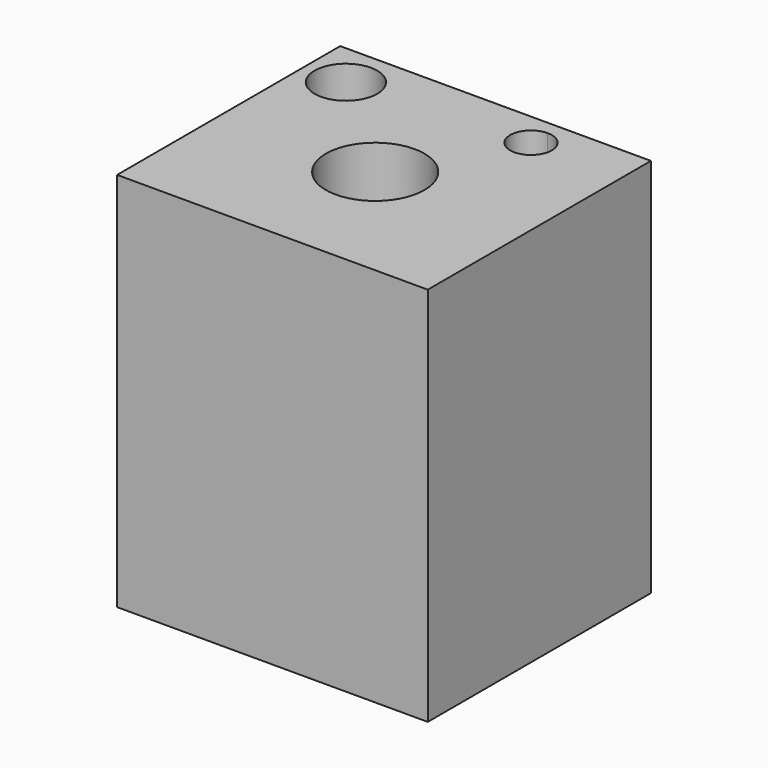
from build123d import *

# Parameters (mm, degrees)
F0_W        = 77.148978
F0_H        = 69.256503
F0_R        = 12.239809
F0_R_2      = 7.787735
F0_R_3      = 5.165088
F1_DEPTH    = 13.208
F1_FACE_W   = 77.148978
F1_FACE_H   = 69.256503
F1_FACE_R   = 12.239809
F1_FACE_R_2 = 7.787735
F1_FACE_R_3 = 5.165088
F2_DEPTH    = 94.488


with BuildPart() as f1:
    # F0 (on Top) → F1 (new body)
    with BuildSketch(Plane.XY):
        with Locations((0.295969, 2.367745)):
            Rectangle(F0_W, F0_H)
        Circle(F0_R, mode=Mode.SUBTRACT)
        with Locations((-27.938714, 25.833188)):
            Circle(F0_R_2, mode=Mode.SUBTRACT)
        with Locations((15.95341, 28.424604)):
            Circle(F0_R_3, mode=Mode.SUBTRACT)
    extrude(amount=F1_DEPTH)

    # F1_face (on face) → F2 (join)
    with BuildSketch(Plane(origin=(1.210849, 1.162793, 13.208), x_dir=(1, 0, 0), z_dir=(0, 0, 1))):
        with Locations((-0.91488, 1.204951)):
            Rectangle(F1_FACE_W, F1_FACE_H)
        with Locations((-1.210849, -1.162793)):
            Circle(F1_FACE_R, mode=Mode.SUBTRACT)
        with Locations((-29.149563, 24.670395)):
            Circle(F1_FACE_R_2, mode=Mode.SUBTRACT)
        with Locations((14.742562, 27.261811)):
            Circle(F1_FACE_R_3, mode=Mode.SUBTRACT)
    extrude(amount=-F2_DEPTH)


solid = f1.part
